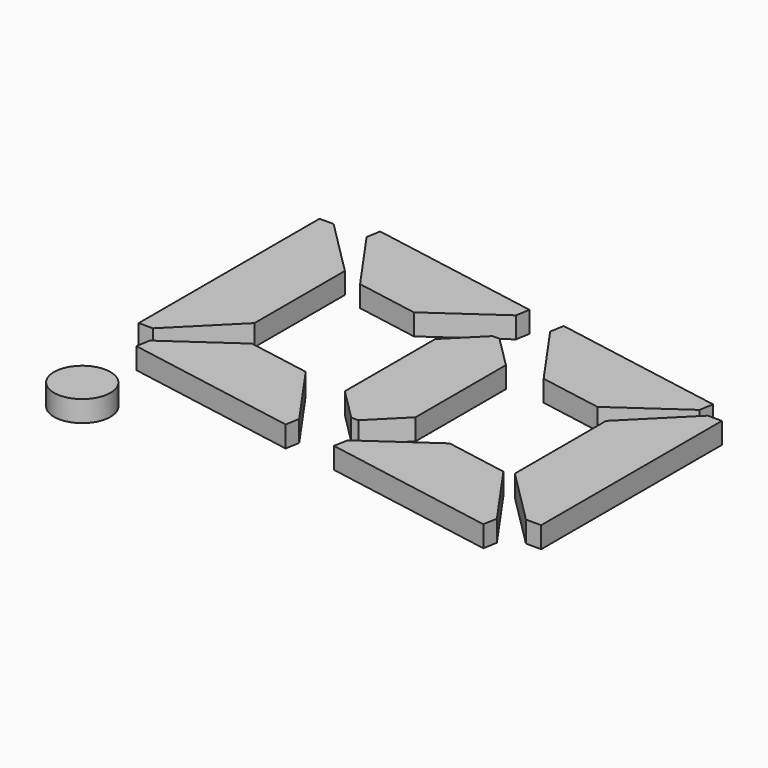
from build123d import *

# Parameters (mm, degrees)
BOX026_W                   = 2.5
BOX026_H                   = 1
BOX026_DEPTH               = 0.3
CHAMFER010_SIZE            = 0.8
CHAMFER011_SIZE            = 0.8
CHAMFER011_PLACEMENT_ANGLE = 170
BOX012_W                   = 3
BOX012_H                   = 1
BOX012_DEPTH               = 0.3
BOX012_PLACEMENT_ANGLE     = 45
BOX013_W                   = 4
BOX013_H                   = 1
BOX013_DEPTH               = 0.3
BOX013_PLACEMENT_ANGLE     = -45
BOX011_W                   = 1
BOX011_H                   = 3.2
BOX011_DEPTH               = 0.3
BOX025_W                   = 2.5
BOX025_H                   = 1
BOX025_DEPTH               = 0.3
CHAMFER008_SIZE            = 0.8
CHAMFER009_SIZE            = 0.8
CHAMFER009_PLACEMENT_ANGLE = -10
BOX009_W                   = 3
BOX009_H                   = 1
BOX009_DEPTH               = 0.3
BOX009_PLACEMENT_ANGLE     = 45
BOX010_W                   = 4
BOX010_H                   = 1
BOX010_DEPTH               = 0.3
BOX010_PLACEMENT_ANGLE     = -45
BOX007_W                   = 1
BOX007_H                   = 3.2
BOX007_DEPTH               = 0.3
CYLINDER007_R              = 0.4
CYLINDER007_DEPTH          = 0.3
BOX024_W                   = 2.5
BOX024_H                   = 1
BOX024_DEPTH               = 0.3
CHAMFER006_SIZE            = 0.8
CHAMFER007_SIZE            = 0.8
CHAMFER007_PLACEMENT_ANGLE = 170
BOX023_W                   = 2.5
BOX023_H                   = 1
BOX023_DEPTH               = 0.3
CHAMFER004_SIZE            = 0.8
CHAMFER005_SIZE            = 0.8
CHAMFER005_PLACEMENT_ANGLE = -10
BOX008_W                   = 1
BOX008_H                   = 2.5
BOX008_DEPTH               = 0.3
CHAMFER_SIZE               = 0.45
CHAMFER001_SIZE            = 0.45
CHAMFER002_SIZE            = 0.45
CHAMFER003_SIZE            = 0.45


with BuildPart() as chamfer011:
    # Box026 → Box026 (new body)
    with BuildSketch(Plane(origin=(-14, -8, 0), x_dir=(1, 0, 0), z_dir=(0, 0, 1))):
        with Locations((1.25, 0.5)):
            Rectangle(BOX026_W, BOX026_H)
    extrude(amount=BOX026_DEPTH)

    # Chamfer010
    chamfer010_edges = [chamfer011.edges().sort_by_distance(p)[0] for p in [
        (-11.5, -7, 0.15),
    ]]
    chamfer(chamfer010_edges, length=CHAMFER010_SIZE)

    # Chamfer011
    chamfer011_edges = [chamfer011.edges().sort_by_distance(p)[0] for p in [
        (-14, -7, 0.15),
    ]]
    chamfer(chamfer011_edges, length=CHAMFER011_SIZE)


with BuildPart() as chamfer011_1:
    # Chamfer011 placement: moved
    add(chamfer011.part.moved(Location((-26.5, -8, 0))).rotate(Axis((-26.5, -8, 0), (0, 0, 1)), CHAMFER011_PLACEMENT_ANGLE))


with BuildPart() as kub012:
    # Box012 → Box012 (new body)
    with BuildSketch(Plane.XY):
        with Locations((1.5, 0.5)):
            Rectangle(BOX012_W, BOX012_H)
    extrude(amount=BOX012_DEPTH)


with BuildPart() as kub012_1:
    # Box012 placement: moved
    add(kub012.part.moved(Location((-20.2, -2.8, 0))).rotate(Axis((-20.2, -2.8, 0), (0, 0, 1)), BOX012_PLACEMENT_ANGLE))


with BuildPart() as kub013:
    # Box013 → Box013 (new body)
    with BuildSketch(Plane.XY):
        with Locations((2, 0.5)):
            Rectangle(BOX013_W, BOX013_H)
    extrude(amount=BOX013_DEPTH)


with BuildPart() as kub013_1:
    # Box013 placement: moved
    add(kub013.part.moved(Location((-22.2, -3.43, 0))).rotate(Axis((-22.2, -3.43, 0), (0, 0, 1)), BOX013_PLACEMENT_ANGLE))


with BuildPart() as cut014:
    # Box011 → Box011 (new body)
    with BuildSketch(Plane(origin=(-20, -5, 0), x_dir=(1, 0, 0), z_dir=(0, 0, 1))):
        with Locations((0.5, 1.6)):
            Rectangle(BOX011_W, BOX011_H)
    extrude(amount=BOX011_DEPTH)

    # Cut013: cut Kub013
    add(kub013_1.part, mode=Mode.SUBTRACT)

    # Cut014: cut Kub012
    add(kub012_1.part, mode=Mode.SUBTRACT)


with BuildPart() as cut014_1:
    # Cut014 placement: moved
    add(cut014.part.moved(Location((8, -1, 0))))


with BuildPart() as chamfer009:
    # Box025 → Box025 (new body)
    with BuildSketch(Plane(origin=(-14, -8, 0), x_dir=(1, 0, 0), z_dir=(0, 0, 1))):
        with Locations((1.25, 0.5)):
            Rectangle(BOX025_W, BOX025_H)
    extrude(amount=BOX025_DEPTH)

    # Chamfer008
    chamfer008_edges = [chamfer009.edges().sort_by_distance(p)[0] for p in [
        (-11.5, -7, 0.15),
    ]]
    chamfer(chamfer008_edges, length=CHAMFER008_SIZE)

    # Chamfer009
    chamfer009_edges = [chamfer009.edges().sort_by_distance(p)[0] for p in [
        (-14, -7, 0.15),
    ]]
    chamfer(chamfer009_edges, length=CHAMFER009_SIZE)


with BuildPart() as chamfer009_1:
    # Chamfer009 placement: moved
    add(chamfer009.part.moved(Location((-2, 0, 0))).rotate(Axis((-2, 0, 0), (0, 0, 1)), CHAMFER009_PLACEMENT_ANGLE))


with BuildPart() as kub009:
    # Box009 → Box009 (new body)
    with BuildSketch(Plane.XY):
        with Locations((1.5, 0.5)):
            Rectangle(BOX009_W, BOX009_H)
    extrude(amount=BOX009_DEPTH)


with BuildPart() as kub009_1:
    # Box009 placement: moved
    add(kub009.part.moved(Location((-10.8, -6.415, 0))).rotate(Axis((-10.8, -6.415, 0), (0, 0, 1)), BOX009_PLACEMENT_ANGLE))


with BuildPart() as kub010:
    # Box010 → Box010 (new body)
    with BuildSketch(Plane.XY):
        with Locations((2, 0.5)):
            Rectangle(BOX010_W, BOX010_H)
    extrude(amount=BOX010_DEPTH)


with BuildPart() as kub010_1:
    # Box010 placement: moved
    add(kub010.part.moved(Location((-11.8, -0.8, 0))).rotate(Axis((-11.8, -0.8, 0), (0, 0, 1)), BOX010_PLACEMENT_ANGLE))


with BuildPart() as cut012:
    # Box007 → Box007 (new body)
    with BuildSketch(Plane(origin=(-11, -5, 0), x_dir=(1, 0, 0), z_dir=(0, 0, 1))):
        with Locations((0.5, 1.6)):
            Rectangle(BOX007_W, BOX007_H)
    extrude(amount=BOX007_DEPTH)

    # Cut011: cut Kub010
    add(kub010_1.part, mode=Mode.SUBTRACT)

    # Cut012: cut Kub009
    add(kub009_1.part, mode=Mode.SUBTRACT)


with BuildPart() as cut012_1:
    # Cut012 placement: moved
    add(cut012.part.moved(Location((-6.5, 0, 0))))


with BuildPart() as cylinder007:
    # Cylinder007 → Cylinder007 (new body)
    with BuildSketch(Plane(origin=(-17.1, -6.5, 0), x_dir=(1, 0, 0), z_dir=(0, 0, 1))):
        Circle(CYLINDER007_R)
    extrude(amount=CYLINDER007_DEPTH)


with BuildPart() as chamfer007:
    # Box024 → Box024 (new body)
    with BuildSketch(Plane(origin=(-14, -8, 0), x_dir=(1, 0, 0), z_dir=(0, 0, 1))):
        with Locations((1.25, 0.5)):
            Rectangle(BOX024_W, BOX024_H)
    extrude(amount=BOX024_DEPTH)

    # Chamfer006
    chamfer006_edges = [chamfer007.edges().sort_by_distance(p)[0] for p in [
        (-11.5, -7, 0.15),
    ]]
    chamfer(chamfer006_edges, length=CHAMFER006_SIZE)

    # Chamfer007
    chamfer007_edges = [chamfer007.edges().sort_by_distance(p)[0] for p in [
        (-14, -7, 0.15),
    ]]
    chamfer(chamfer007_edges, length=CHAMFER007_SIZE)


with BuildPart() as chamfer007_1:
    # Chamfer007 placement: moved
    add(chamfer007.part.moved(Location((-29.5, -7.5, 0))).rotate(Axis((-29.5, -7.5, 0), (0, 0, 1)), CHAMFER007_PLACEMENT_ANGLE))


with BuildPart() as chamfer005:
    # Box023 → Box023 (new body)
    with BuildSketch(Plane(origin=(-14, -8, 0), x_dir=(1, 0, 0), z_dir=(0, 0, 1))):
        with Locations((1.25, 0.5)):
            Rectangle(BOX023_W, BOX023_H)
    extrude(amount=BOX023_DEPTH)

    # Chamfer004
    chamfer004_edges = [chamfer005.edges().sort_by_distance(p)[0] for p in [
        (-11.5, -7, 0.15),
    ]]
    chamfer(chamfer004_edges, length=CHAMFER004_SIZE)

    # Chamfer005
    chamfer005_edges = [chamfer005.edges().sort_by_distance(p)[0] for p in [
        (-14, -7, 0.15),
    ]]
    chamfer(chamfer005_edges, length=CHAMFER005_SIZE)


with BuildPart() as chamfer005_1:
    # Chamfer005 placement: moved
    add(chamfer005.part.moved(Location((1.2, -0.5, 0))).rotate(Axis((1.2, -0.5, 0), (0, 0, 1)), CHAMFER005_PLACEMENT_ANGLE))


with BuildPart() as digit:
    # Box008 → Box008 (new body)
    with BuildSketch(Plane(origin=(-15, -5, 0), x_dir=(1, 0, 0), z_dir=(0, 0, 1))):
        with Locations((0.5, 1.25)):
            Rectangle(BOX008_W, BOX008_H)
    extrude(amount=BOX008_DEPTH)

    # Chamfer
    chamfer_edges = [digit.edges().sort_by_distance(p)[0] for p in [
        (-15, -5, 0.15),
    ]]
    chamfer(chamfer_edges, length=CHAMFER_SIZE)

    # Chamfer001
    chamfer001_edges = [digit.edges().sort_by_distance(p)[0] for p in [
        (-14, -5, 0.15),
    ]]
    chamfer(chamfer001_edges, length=CHAMFER001_SIZE)

    # Chamfer002
    chamfer002_edges = [digit.edges().sort_by_distance(p)[0] for p in [
        (-14, -2.5, 0.15),
    ]]
    chamfer(chamfer002_edges, length=CHAMFER002_SIZE)

    # Chamfer003
    chamfer003_edges = [digit.edges().sort_by_distance(p)[0] for p in [
        (-15, -2.5, 0.15),
    ]]
    chamfer(chamfer003_edges, length=CHAMFER003_SIZE)


with BuildPart() as digit_1:
    # Chamfer003 placement: moved
    add(digit.part.moved(Location((0.3, -0.3, 0))))

    # Fusion002: union Chamfer011, Cut014, Chamfer009, Cut012, Cylinder007, Chamfer007, Chamfer005
    add(chamfer011_1.part)
    add(cut014_1.part)
    add(chamfer009_1.part)
    add(cut012_1.part)
    add(cylinder007.part)
    add(chamfer007_1.part)
    add(chamfer005_1.part)


with BuildPart() as digit_2:
    # Fusion002 placement: moved
    add(digit_1.part.moved(Location((14.3, 4.45, 2.75))))


solid = digit_2.part
